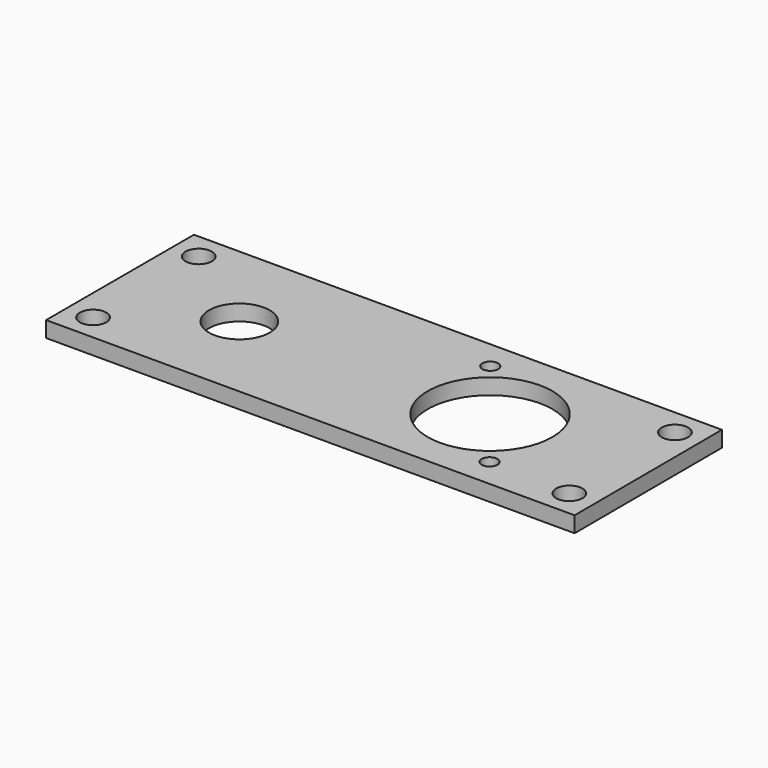
from build123d import *

# Parameters (mm, degrees)
F0_R     = 2.5
F0_R_2   = 1.5
F0_R_3   = 5.75
F0_R_4   = 11.8
F1_DEPTH = 3


with BuildPart() as f1:
    # F0 (on Top) → F1 (new body)
    with BuildSketch(Plane.XY):
        Polygon((100, 35), (0, 35), (0, 0), (100.10055, 0), align=None)
        with Locations((4.89945, 5)):
            Circle(F0_R, mode=Mode.SUBTRACT)
        with Locations((79.588087, 5.5)):
            Circle(F0_R_2, mode=Mode.SUBTRACT)
        with Locations((95.10055, 5)):
            Circle(F0_R, mode=Mode.SUBTRACT)
        with Locations((22.599816, 17.507559)):
            Circle(F0_R_3, mode=Mode.SUBTRACT)
        with Locations((4.89945, 30)):
            Circle(F0_R, mode=Mode.SUBTRACT)
        with Locations((70.088087, 17.5)):
            Circle(F0_R_4, mode=Mode.SUBTRACT)
        with Locations((60.537812, 29.5)):
            Circle(F0_R_2, mode=Mode.SUBTRACT)
        with Locations((95.10055, 30)):
            Circle(F0_R, mode=Mode.SUBTRACT)
    extrude(amount=F1_DEPTH)


solid = f1.part
